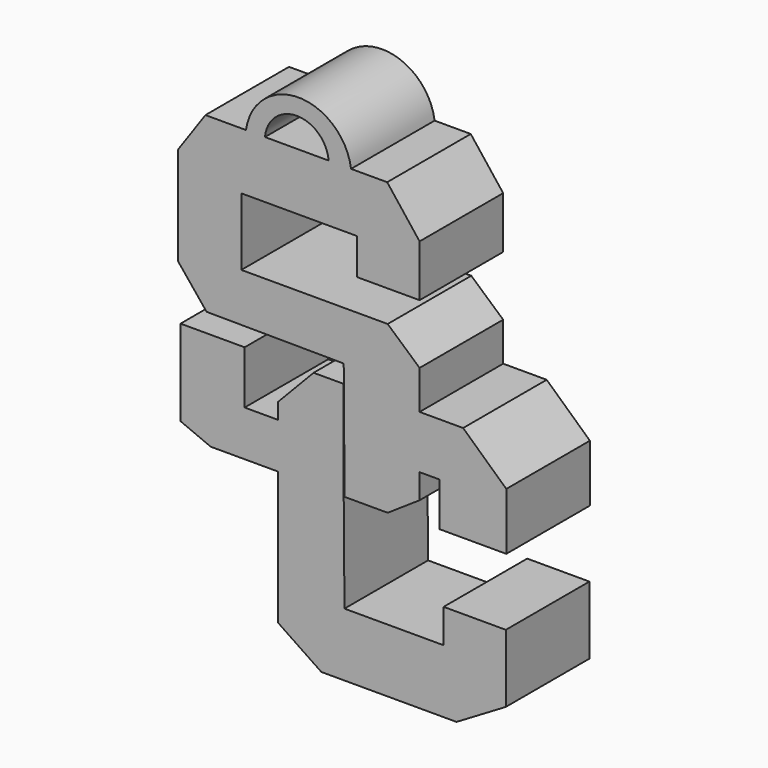
from build123d import *

# Parameters (mm, degrees)
F1_DEPTH = 25.4


with BuildPart() as f1:
    # F0 (on Front) → F1 (new body)
    with BuildSketch(Plane.XZ):
        Polygon((11.565946, -5.201467), (11.565946, 18.904803), (4.236999, 18.904803), (-4.392132, 9.877405), (-4.392132, 6.015409), (-4.392132, -5.055842), (-4.392132, -37.411213), (6.129642, -44.522315), (38.994446, -44.522315), (50.979037, -37.411213), (50.979037, -20.91114), (35.856638, -20.91114), (35.856638, -29.133029), (11.749207, -29.133029), align=None)
        Polygon((-12.195139, 65.511078), (-22.05599, 65.511078), (-28.695261, 55.99479), (-28.663014, 31.999721), (-21.769521, 23.493014), (11.565946, 23.267746), (11.565946, 23.493014), (11.567613, 23.267735), (11.778262, -5.201467), (22.253467, -5.201467), (30.0129, 0), (30.0129, 6.015409), (30.0129, 18.904803), (30.0129, 28.324358), (22.253467, 35.205364), (18.739762, 35.205364), (13.176396, 35.205364), (-13.322799, 35.205364), (-13.322799, 51.602658), (14.786843, 51.602658), (14.786843, 42.818397), (30.0129, 42.818397), (30.0129, 55.409171), (22.131192, 65.511078), (13.348733, 65.511078), (7.910361, 65.511078), (-7.580762, 65.511078), align=None)
        with BuildLine():
            ThreePointArc((13.348733, 65.511078), (0.576797, 76.644837), (-12.195139, 65.511078))
            Line((-12.195139, 65.511078), (-7.580762, 65.511078))
            ThreePointArc((-7.580762, 65.511078), (0.164799, 72.58245), (7.910361, 65.511078))
            Line((7.910361, 65.511078), (13.348733, 65.511078))
        make_face()
        Polygon((11.565946, 23.493014), (11.565946, 23.267746), (11.567613, 23.267735), align=None)
        Polygon((-4.392132, -5.055842), (-4.392132, 6.015409), (-12.523672, 6.015409), (-12.523672, 18.904803), (-28.109641, 18.904803), (-28.109641, -1.981357), (-20.789424, -5.055842), align=None)
        Polygon((30.0129, 18.904803), (30.0129, 6.015409), (34.844249, 6.015409), (34.844249, -4.61663), (51.095132, -4.61663), (51.095132, 9.279589), (40.594895, 18.904803), align=None)
    extrude(amount=F1_DEPTH)


solid = f1.part
